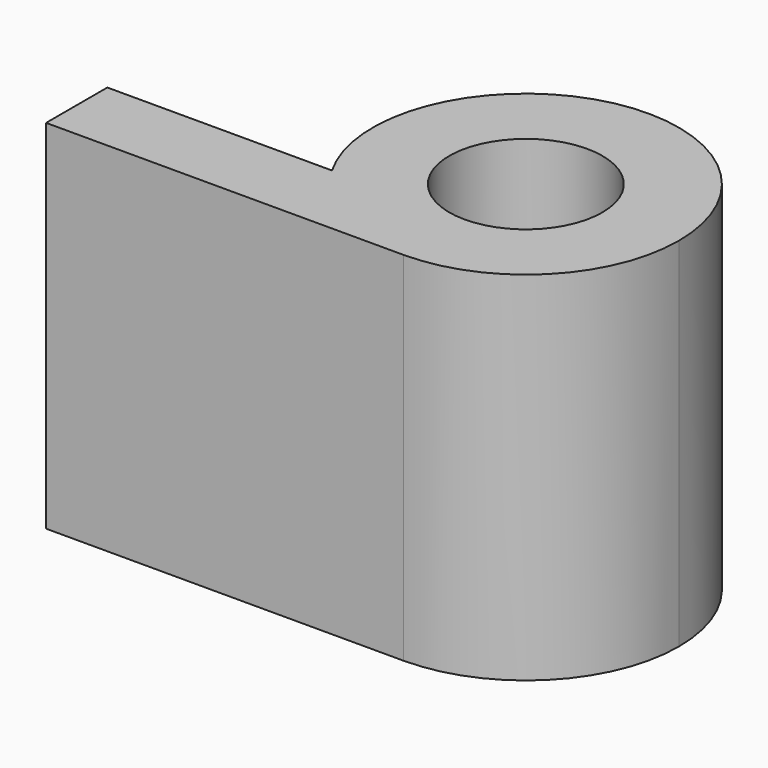
from build123d import *

# Parameters (mm, degrees)
F1_DEPTH = 7


with BuildPart() as f1:
    # F0 (on Top) → F1 (new body)
    with BuildSketch(Plane.XY):
        with BuildLine():
            Line((-7, -3), (0, -3))
            ThreePointArc((0, -3), (-1.5, -2.5980762114), (-2.5980762114, -1.5))
            Line((-2.5980762114, -1.5), (-7, -1.5))
            Line((-7, -1.5), (-7, -3))
        make_face()
        with BuildLine():
            Line((-2.5980762114, -1.5), (0, -1.5))
            Line((0, -1.5), (0, -3))
            ThreePointArc((0, -3), (2.1213203436, -2.1213203436), (3, 0))
            ThreePointArc((3, 0), (-0.7764571353, 2.8977774789), (-2.5980762114, -1.5))
        make_face()
        with BuildLine():
            ThreePointArc((0, -1.5), (-1.0606601718, 1.0606601718), (1.5, 0))
            ThreePointArc((1.5, 0), (1.0606601718, -1.0606601718), (0, -1.5))
        make_face(mode=Mode.SUBTRACT)
        with BuildLine():
            Line((0, -3), (0, -1.5))
            Line((0, -1.5), (-2.5980762114, -1.5))
            ThreePointArc((-2.5980762114, -1.5), (-1.5, -2.5980762114), (0, -3))
        make_face()
    extrude(amount=F1_DEPTH)


solid = f1.part
